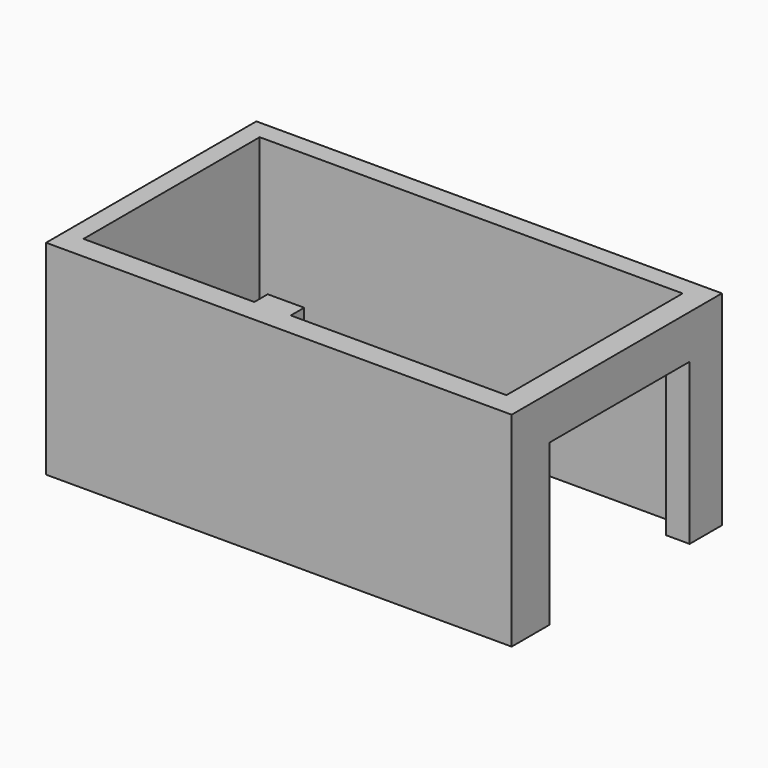
from build123d import *

# Parameters (mm, degrees)
F0_W     = 6384.0107917786
F0_H     = 3603.8770675659
F1_DEPTH = 2800
F2_W     = 2400
F2_H     = 2200
F3_DEPTH = 326.8275394628


with BuildPart() as f1:
    # F0 (on Top) → F1 (new body)
    with BuildSketch(Plane.XY):
        with Locations((93.7960147858, -14.866232872)):
            Rectangle(F0_W, F0_H)
        Polygon((-498.7729787827, -1497.181711942), (-2841.0261287877, -1497.181711942), (-2841.0261287877, 1522.818288058), (2958.9738712123, 1522.818288058), (2958.9738712123, -1497.181711942), (1.2270212173, -1497.181711942), (1.2270212173, -1267.181711942), (-498.7729787827, -1267.181711942), align=None, mode=Mode.SUBTRACT)
    extrude(amount=F1_DEPTH)

    # F2 (on face) → F3 (cut, through all)
    with BuildSketch(Plane.YZ.offset(3285.801410675)):
        with Locations((33.195233345, 1100)):
            Rectangle(F2_W, F2_H)
    extrude(amount=-F3_DEPTH, mode=Mode.SUBTRACT)


solid = f1.part
